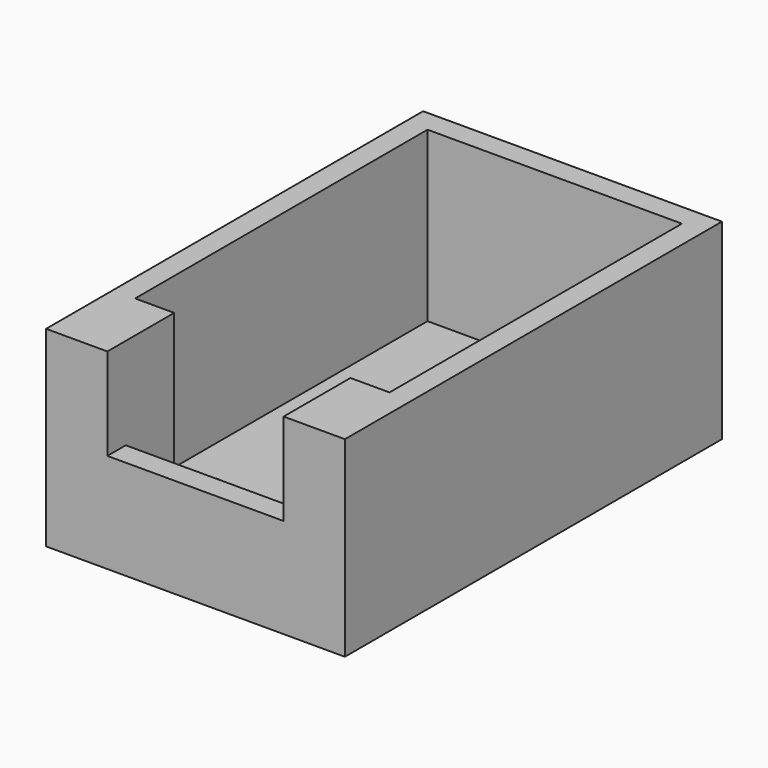
from build123d import *

# Parameters (mm, degrees)
SKETCH_W           = 37
SKETCH_H           = 51.5
PAD_DEPTH          = 25
SKETCH001_W        = 31
SKETCH001_H        = 45.5
POCKET_DEPTH       = 22
SKETCH002_W        = 31.0000008352
SKETCH002_H        = 3
POCKET001_DEPTH    = 22
SKETCH003_R        = 2
POCKET002_DEPTH    = 5
SKETCH004_R        = 3
POCKET003_DEPTH    = 1
SKETCH005_W        = 4
SKETCH005_H        = 3
PAD001_DEPTH       = 22
PAD001_FACE12_W    = 45.5
PAD001_FACE12_H    = 22
POCKET004_DEPTH    = 0.1
POCKET004_FACE17_W = 3.9999991648
POCKET004_FACE17_H = 22
POCKET005_DEPTH    = 0.1
POCKET005_FACE13_W = 31
POCKET005_FACE13_H = 22
POCKET006_DEPTH    = 0.1
POCKET006_FACE12_W = 45.5
POCKET006_FACE12_H = 22
POCKET007_DEPTH    = 0.1
POCKET007_FACE11_W = 4
POCKET007_FACE11_H = 22
POCKET008_DEPTH    = 0.1
POCKET008_FACE19_W = 0.1
POCKET008_FACE19_H = 22
POCKET009_DEPTH    = 0.1
POCKET009_FACE15_W = 0.1
POCKET009_FACE15_H = 22
POCKET010_DEPTH    = 0.1
POCKET010_FACE12_W = 0.1
POCKET010_FACE12_H = 22
POCKET011_DEPTH    = 0.1
POCKET011_FACE22_W = 0.1
POCKET011_FACE22_H = 22
POCKET012_DEPTH    = 0.1
POCKET012_FACE22_W = 45.7
POCKET012_FACE22_H = 22
POCKET013_DEPTH    = 1
POCKET013_FACE12_W = 45.7
POCKET013_FACE12_H = 22
POCKET014_DEPTH    = 1
POCKET014_FACE22_W = 33.2
POCKET014_FACE22_H = 22
POCKET015_DEPTH    = 1
POCKET015_FACE17_W = 5.0999991648
POCKET015_FACE17_H = 22
POCKET016_DEPTH    = 1
POCKET016_FACE11_W = 5.1
POCKET016_FACE11_H = 22
POCKET017_DEPTH    = 1
POCKET017_FACE3_W  = 51.5
POCKET017_FACE3_H  = 25
PAD002_DEPTH       = 1
PAD002_FACE2_W     = 51.5
PAD002_FACE2_H     = 25
PAD003_DEPTH       = 1
PAD003_FACE2_W     = 39
PAD003_FACE2_H     = 25
PAD004_DEPTH       = 1
PAD005_DEPTH       = 1
PAD006_DEPTH       = 5
PAD007_DEPTH       = 3
SKETCH006_W        = 22.9999991648
SKETCH006_H        = 3
PAD008_DEPTH       = 10


with BuildPart() as part:
    # Sketch → Pad (new body)
    with BuildSketch(Plane.XY):
        with Locations((-15.7498351648, -0.8188517965)):
            Rectangle(SKETCH_W, SKETCH_H)
    extrude(amount=PAD_DEPTH)

    # Sketch001 (on Face6 of Pad) → Pocket (cut)
    with BuildSketch(Plane.XY.offset(25)):
        with Locations((-15.7498351648, -0.8188517965)):
            Rectangle(SKETCH001_W, SKETCH001_H)
    extrude(amount=-POCKET_DEPTH, mode=Mode.SUBTRACT)

    # Sketch002 (on Face5 of Pocket) → Pocket001 (cut)
    with BuildSketch(Plane.XY.offset(25)):
        with Locations((-15.7498355824, -25.0688517965)):
            Rectangle(SKETCH002_W, SKETCH002_H)
    extrude(amount=-POCKET001_DEPTH, mode=Mode.SUBTRACT)

    # Sketch003 (on Face12 of Pocket001) → Pocket002 (cut)
    with BuildSketch(Plane.XY.offset(3)):
        with Locations((-15.5998351648, 16.2811482035)):
            Circle(SKETCH003_R)
        with Locations((-27.1998351648, -19.5188517965)):
            Circle(SKETCH003_R)
        with Locations((-4.2998351648, -19.5188517965)):
            Circle(SKETCH003_R)
    extrude(amount=-POCKET002_DEPTH, mode=Mode.SUBTRACT)

    # Sketch004 (on Face4 of Pocket002) → Pocket003 (cut)
    with BuildSketch(Plane(origin=(0, 0, 0), x_dir=(1, 0, 0), z_dir=(0, 0, -1))):
        with Locations((-27.199835, 19.518852)):
            Circle(SKETCH004_R)
        with Locations((-4.29979, 19.518393)):
            Circle(SKETCH004_R)
        with Locations((-15.599835, -16.281149)):
            Circle(SKETCH004_R)
    extrude(amount=-POCKET003_DEPTH, mode=Mode.SUBTRACT)

    # Sketch005 (on Face15 of Pocket003) → Pad001 (join)
    with BuildSketch(Plane.XY.offset(3)):
        with Locations((-29.249836, -25.0688517965)):
            Rectangle(SKETCH005_W, SKETCH005_H)
        with Locations((-2.2498351648, -25.0688517965)):
            Rectangle(SKETCH005_W, SKETCH005_H)
    extrude(amount=PAD001_DEPTH)

    # Pad001 Face12 → Pocket004 (cut)
    with BuildSketch(Plane(origin=(-31.2498351648, -0.8188517965, 14), x_dir=(0, -1, 0), z_dir=(1, 0, 0))):
        Rectangle(PAD001_FACE12_W, PAD001_FACE12_H)
    extrude(amount=-POCKET004_DEPTH, mode=Mode.SUBTRACT)

    # Pocket004 Face17 → Pocket005 (cut)
    with BuildSketch(Plane(origin=(-29.2498355824, -23.5688517965, 14), x_dir=(1, 0, 0), z_dir=(0, 1, 0))):
        Rectangle(POCKET004_FACE17_W, POCKET004_FACE17_H)
    extrude(amount=-POCKET005_DEPTH, mode=Mode.SUBTRACT)

    # Pocket005 Face13 → Pocket006 (cut)
    with BuildSketch(Plane(origin=(-15.7498351648, 21.9311482035, 14), x_dir=(-1, 0, 0), z_dir=(0, -1, 0))):
        Rectangle(POCKET005_FACE13_W, POCKET005_FACE13_H)
    extrude(amount=-POCKET006_DEPTH, mode=Mode.SUBTRACT)

    # Pocket006 Face12 → Pocket007 (cut)
    with BuildSketch(Plane(origin=(-0.2498351648, -0.8188517965, 14), x_dir=(0, 1, 0), z_dir=(-1, 0, 0))):
        Rectangle(POCKET006_FACE12_W, POCKET006_FACE12_H)
    extrude(amount=-POCKET007_DEPTH, mode=Mode.SUBTRACT)

    # Pocket007 Face11 → Pocket008 (cut)
    with BuildSketch(Plane(origin=(-2.2498351648, -23.5688517965, 14), x_dir=(1, 0, 0), z_dir=(0, 1, 0))):
        Rectangle(POCKET007_FACE11_W, POCKET007_FACE11_H)
    extrude(amount=-POCKET008_DEPTH, mode=Mode.SUBTRACT)

    # Pocket008 Face19 → Pocket009 (cut)
    with BuildSketch(Plane(origin=(-31.2998351648, 21.9311482035, 14), x_dir=(-1, 0, 0), z_dir=(0, -1, 0))):
        Rectangle(POCKET008_FACE19_W, POCKET008_FACE19_H)
    extrude(amount=-POCKET009_DEPTH, mode=Mode.SUBTRACT)

    # Pocket009 Face15 → Pocket010 (cut)
    with BuildSketch(Plane(origin=(-0.1998351648, 21.9311482035, 14), x_dir=(-1, 0, 0), z_dir=(0, -1, 0))):
        Rectangle(POCKET009_FACE15_W, POCKET009_FACE15_H)
    extrude(amount=-POCKET010_DEPTH, mode=Mode.SUBTRACT)

    # Pocket010 Face12 → Pocket011 (cut)
    with BuildSketch(Plane(origin=(-0.2498351648, -23.6188517965, 14), x_dir=(0, 1, 0), z_dir=(-1, 0, 0))):
        Rectangle(POCKET010_FACE12_W, POCKET010_FACE12_H)
    extrude(amount=-POCKET011_DEPTH, mode=Mode.SUBTRACT)

    # Pocket011 Face22 → Pocket012 (cut)
    with BuildSketch(Plane(origin=(-31.2498351648, -23.6188517965, 14), x_dir=(0, -1, 0), z_dir=(1, 0, 0))):
        Rectangle(POCKET011_FACE22_W, POCKET011_FACE22_H)
    extrude(amount=-POCKET012_DEPTH, mode=Mode.SUBTRACT)

    # Pocket012 Face22 → Pocket013 (cut)
    with BuildSketch(Plane(origin=(-31.3498351648, -0.8188517965, 14), x_dir=(0, -1, 0), z_dir=(1, 0, 0))):
        Rectangle(POCKET012_FACE22_W, POCKET012_FACE22_H)
    extrude(amount=-POCKET013_DEPTH, mode=Mode.SUBTRACT)

    # Pocket013 Face12 → Pocket014 (cut)
    with BuildSketch(Plane(origin=(-0.1498351648, -0.8188517965, 14), x_dir=(0, 1, 0), z_dir=(-1, 0, 0))):
        Rectangle(POCKET013_FACE12_W, POCKET013_FACE12_H)
    extrude(amount=-POCKET014_DEPTH, mode=Mode.SUBTRACT)

    # Pocket014 Face22 → Pocket015 (cut)
    with BuildSketch(Plane(origin=(-15.7498351648, 22.0311482035, 14), x_dir=(-1, 0, 0), z_dir=(0, -1, 0))):
        Rectangle(POCKET014_FACE22_W, POCKET014_FACE22_H)
    extrude(amount=-POCKET015_DEPTH, mode=Mode.SUBTRACT)

    # Pocket015 Face17 → Pocket016 (cut)
    with BuildSketch(Plane(origin=(-29.7998355824, -23.6688517965, 14), x_dir=(1, 0, 0), z_dir=(0, 1, 0))):
        Rectangle(POCKET015_FACE17_W, POCKET015_FACE17_H)
    extrude(amount=-POCKET016_DEPTH, mode=Mode.SUBTRACT)

    # Pocket016 Face11 → Pocket017 (cut)
    with BuildSketch(Plane(origin=(-1.6998351648, -23.6688517965, 14), x_dir=(1, 0, 0), z_dir=(0, 1, 0))):
        Rectangle(POCKET016_FACE11_W, POCKET016_FACE11_H)
    extrude(amount=-POCKET017_DEPTH, mode=Mode.SUBTRACT)

    # Pocket017 Face3 → Pad002 (add)
    with BuildSketch(Plane(origin=(2.7501648352, -0.8188517965, 12.5), x_dir=(0, -1, 0), z_dir=(1, 0, 0))):
        Rectangle(POCKET017_FACE3_W, POCKET017_FACE3_H)
    extrude(amount=PAD002_DEPTH)

    # Pad002 Face2 → Pad003 (add)
    with BuildSketch(Plane(origin=(-34.2498351648, -0.8188517965, 12.5), x_dir=(0, 1, 0), z_dir=(-1, 0, 0))):
        Rectangle(PAD002_FACE2_W, PAD002_FACE2_H)
    extrude(amount=PAD003_DEPTH)

    # Pad003 Face2 → Pad004 (add)
    with BuildSketch(Plane(origin=(-15.7498351648, 24.9311482035, 12.5), x_dir=(1, 0, 0), z_dir=(0, 1, 0))):
        Rectangle(PAD003_FACE2_W, PAD003_FACE2_H)
    extrude(amount=PAD004_DEPTH)

    # Pad004 Face2 → Pad005 (add)
    with BuildSketch(Plane(origin=(-15.7498347143, -26.5688517965, 10.8816629908), x_dir=(-1, 0, 0), z_dir=(0, -1, 0))):
        Polygon((19.5000004505, 10.8816629908), (-19.4999995495, 10.8816629908), (-19.4999995495, -14.1183370092), (-11.4999995495, -14.1183370092), (-11.4999995495, 7.8816629908), (11.5000012857, 7.8816629908), (11.5000012857, -14.1183370092), (19.5000004505, -14.1183370092), align=None)
    extrude(amount=PAD005_DEPTH)

    # Pad005 Face1 → Pad006 (add)
    with BuildSketch(Plane(origin=(-15.7498347143, -27.5688517965, 10.8816629908), x_dir=(-1, 0, 0), z_dir=(0, -1, 0))):
        Polygon((19.5000004505, 10.8816629908), (-19.4999995495, 10.8816629908), (-19.4999995495, -14.1183370092), (-11.4999995495, -14.1183370092), (-11.4999995495, 7.8816629908), (11.5000012857, 7.8816629908), (11.5000012857, -14.1183370092), (19.5000004505, -14.1183370092), align=None)
    extrude(amount=PAD006_DEPTH)

    # Pad006 Face3 → Pad007 (add)
    with BuildSketch(Plane(origin=(-15.7498347143, -32.5688517965, 10.8816629908), x_dir=(-1, 0, 0), z_dir=(0, -1, 0))):
        Polygon((19.5000004505, 10.8816629908), (-19.4999995495, 10.8816629908), (-19.4999995495, -14.1183370092), (-11.4999995495, -14.1183370092), (-11.4999995495, 7.8816629908), (11.5000012857, 7.8816629908), (11.5000012857, -14.1183370092), (19.5000004505, -14.1183370092), align=None)
    extrude(amount=PAD007_DEPTH)

    # Sketch006 (on Face23 of Pad007) → Pad008 (join)
    with BuildSketch(Plane.XY.offset(3)):
        with Locations((-15.7498355824, -34.0688517965)):
            Rectangle(SKETCH006_W, SKETCH006_H)
    extrude(amount=PAD008_DEPTH)


solid = part.part
